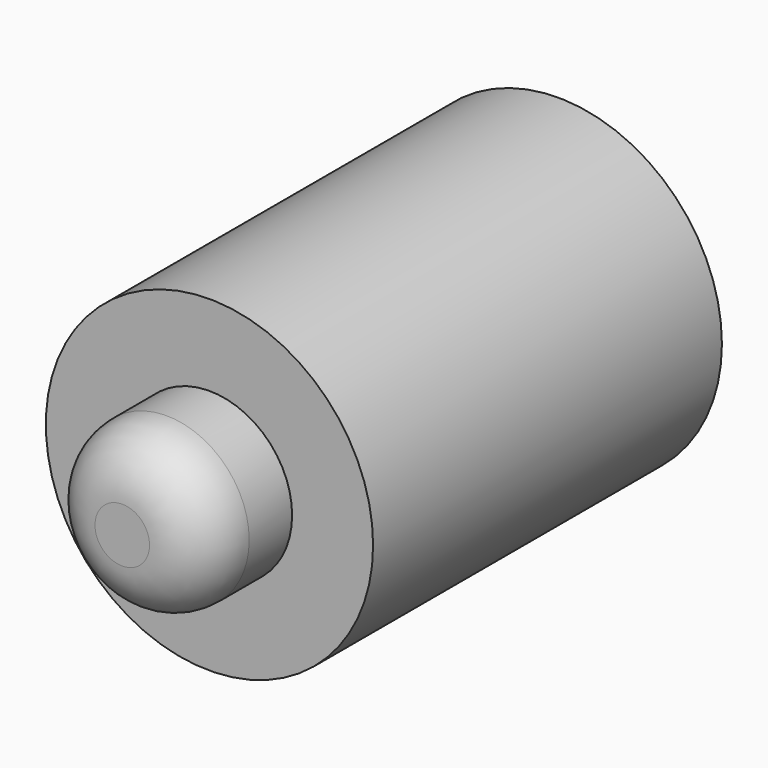
from build123d import *

# Parameters (mm, degrees)
F0_R     = 15.010998
F1_DEPTH = 40
F2_R     = 2.587431
F3_DEPTH = 5
F4_R     = 7.580978
F5_DEPTH = 10
F6_R     = 5.08


with BuildPart() as f1:
    # F0 (on Front) → F1 (new body)
    with BuildSketch(Plane.XZ):
        with Locations((0.77934, -14.990753)):
            Circle(F0_R)
    extrude(amount=F1_DEPTH)

    # F2 (on face) → F3 (cut)
    with BuildSketch(Plane(origin=(0, 0, 0), x_dir=(-1, 0, 0), z_dir=(0, 1, 0))):
        with Locations((-0.003086, -4.838753)):
            Circle(F2_R)
    extrude(amount=-F3_DEPTH, mode=Mode.SUBTRACT)

    # F4 (on face) → F5 (join)
    with BuildSketch(Plane.XZ.offset(40)):
        with Locations((0.77934, -14.990753)):
            Circle(F4_R)
    extrude(amount=F5_DEPTH)

    # F6
    f6_edges = [f1.edges().sort_by_distance(p)[0] for p in [
        (-6.801638, -50, -14.990753),
    ]]
    fillet(f6_edges, radius=F6_R)


solid = f1.part
